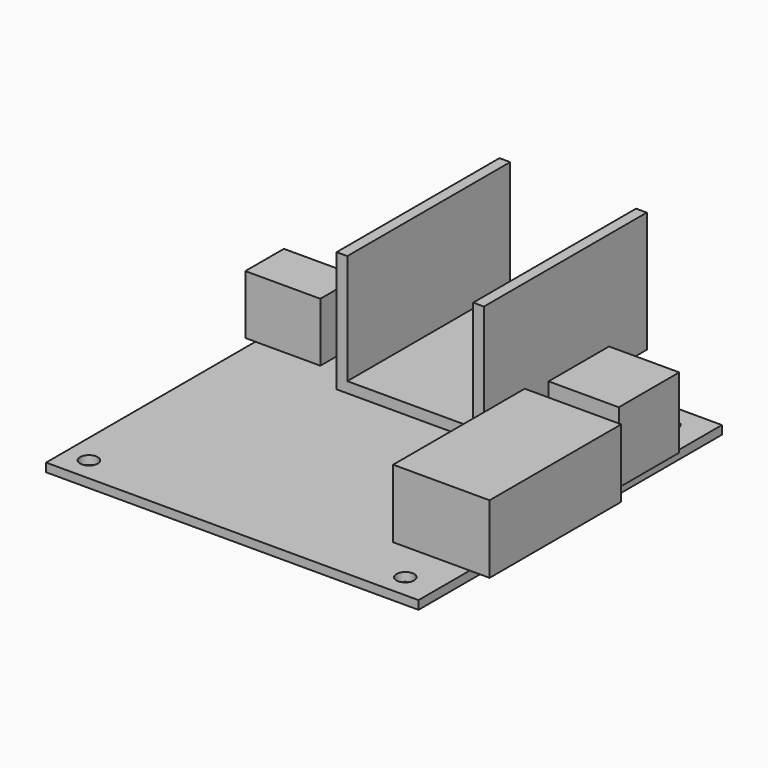
from build123d import *

# Parameters (mm, degrees)
SKETCH_W     = 69.52
SKETCH_H     = 70.79
SKETCH_R     = 1.65
PAD_DEPTH    = 1.6
SKETCH001_W  = 18
SKETCH001_H  = 30.7
PAD001_DEPTH = 12.75
SKETCH002_W  = 13.1
SKETCH002_H  = 14.1
PAD002_DEPTH = 13.2
SKETCH003_W  = 14
SKETCH003_H  = 9
PAD003_DEPTH = 11
SKETCH004_W  = 27.5
SKETCH004_H  = 38
PAD004_DEPTH = 22.55
SKETCH005_W  = 23.5
SKETCH005_H  = 23.222077
POCKET_DEPTH = 38


with BuildPart() as part:
    # Sketch → Pad (new body)
    with BuildSketch(Plane.XY):
        Rectangle(SKETCH_W, SKETCH_H)
        with Locations((-30.315, 30.645)):
            Circle(SKETCH_R, mode=Mode.SUBTRACT)
        with Locations((28.74, 30.645)):
            Circle(SKETCH_R, mode=Mode.SUBTRACT)
        with Locations((-30.315, -30.95)):
            Circle(SKETCH_R, mode=Mode.SUBTRACT)
        with Locations((28.74, -30.95)):
            Circle(SKETCH_R, mode=Mode.SUBTRACT)
    extrude(amount=PAD_DEPTH)

    # Sketch001 (on Face10 of Pad) → Pad001 (join)
    with BuildSketch(Plane.XY.offset(1.6)):
        with Locations((29.46, -8.09)):
            Rectangle(SKETCH001_W, SKETCH001_H)
    extrude(amount=PAD001_DEPTH)

    # Sketch002 (on Face5 of Pad001) → Pad002 (join)
    with BuildSketch(Plane.XY.offset(1.6)):
        with Locations((28.81, 17.6275)):
            Rectangle(SKETCH002_W, SKETCH002_H)
    extrude(amount=PAD002_DEPTH)

    # Sketch003 (on Face5 of Pad002) → Pad003 (join)
    with BuildSketch(Plane.XY.offset(1.6)):
        with Locations((-29.64, 17.945)):
            Rectangle(SKETCH003_W, SKETCH003_H)
    extrude(amount=PAD003_DEPTH)

    # Sketch004 (on Face5 of Pad003) → Pad004 (join)
    with BuildSketch(Plane.XY.offset(1.6)):
        with Locations((-2.375, 28.095)):
            Rectangle(SKETCH004_W, SKETCH004_H)
    extrude(amount=PAD004_DEPTH)

    # Sketch005 (on Face27 of Pad004) → Pocket (cut)
    with BuildSketch(Plane(origin=(0, 47.095, 0), x_dir=(-1, 0, 0), z_dir=(0, 1, 0))):
        with Locations((2.375, 15.211039)):
            Rectangle(SKETCH005_W, SKETCH005_H)
    extrude(amount=-POCKET_DEPTH, mode=Mode.SUBTRACT)


solid = part.part
